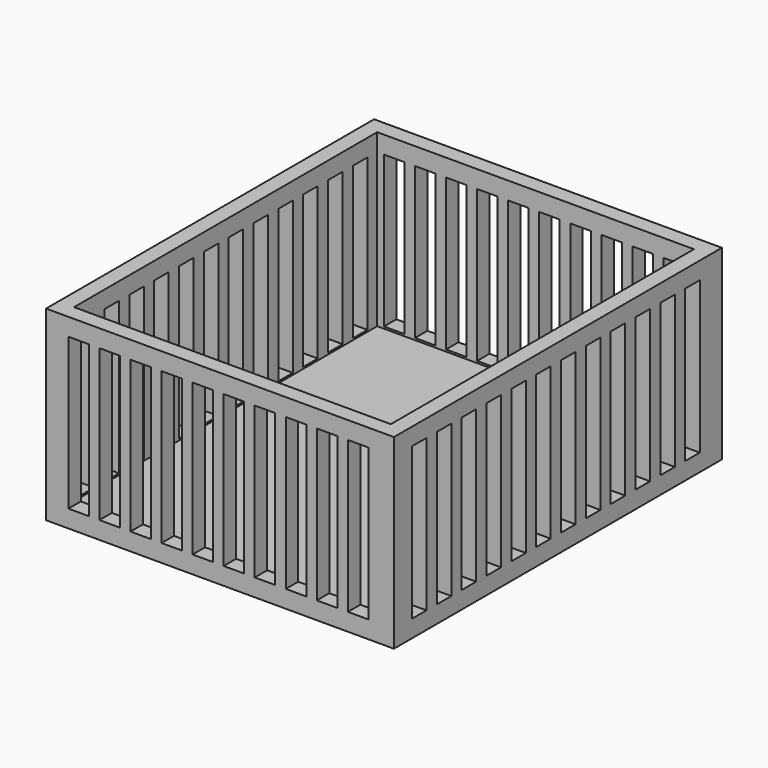
from build123d import *

# Parameters (mm, degrees)
F1_W     = 111.9999963282
F1_H     = 131.9999963282
F2_DEPTH = 5
F3_W     = 111.9999963282
F3_H     = 131.9999963282
F3_W_2   = 101.9999984144
F3_H_2   = 121.9999984144
F4_DEPTH = 55
F5_W     = 3.3013222273
F5_H     = 48.7285429239
F5_W_2   = 6.6026444547
F6_DEPTH = 200
F7_W     = 2.9244981706
F7_H     = 48.8800057769
F7_W_2   = 5.8489963412
F8_DEPTH = 200


with BuildPart() as f2:
    # F1 (on face) → F2 (new body)
    with BuildSketch(Plane.XY):
        with Locations((-4.4797024012, -0.5462057889)):
            Rectangle(F1_W, F1_H)
    extrude(amount=F2_DEPTH)

    # F3 (on face) → F4 (join)
    with BuildSketch(Plane.XY.offset(5)):
        with Locations((-4.4797024012, -0.5462057889)):
            Rectangle(F3_W, F3_H)
        with Locations((-4.4797024012, -0.5462057889)):
            Rectangle(F3_W_2, F3_H_2, mode=Mode.SUBTRACT)
    extrude(amount=F4_DEPTH)

    # F5 (on face) → F6 (cut)
    with BuildSketch(Plane.XZ.offset(66.546203953)):
        with Locations((-1.6506611137, 30)):
            Rectangle(F5_W, F5_H)
        with Locations((1.6506611137, 30)):
            Rectangle(F5_W, F5_H)
        with Locations((10, 30)):
            Rectangle(F5_W_2, F5_H)
        with Locations((20, 30)):
            Rectangle(F5_W_2, F5_H)
        with Locations((30, 30)):
            Rectangle(F5_W_2, F5_H)
        with Locations((40, 30)):
            Rectangle(F5_W_2, F5_H)
        with Locations((-10, 30)):
            Rectangle(F5_W_2, F5_H)
        with Locations((-20, 30)):
            Rectangle(F5_W_2, F5_H)
        with Locations((-30, 30)):
            Rectangle(F5_W_2, F5_H)
        with Locations((-40, 30)):
            Rectangle(F5_W_2, F5_H)
        with Locations((-50, 30)):
            Rectangle(F5_W_2, F5_H)
    extrude(amount=-F6_DEPTH, mode=Mode.SUBTRACT)

    # F7 (on face) → F8 (cut)
    with BuildSketch(Plane(origin=(-60.4797005653, 0, 0), x_dir=(0, -1, 0), z_dir=(-1, 0, 0))):
        with Locations((-55.0748649985, 30)):
            Rectangle(F7_W, F7_H)
        with Locations((-52.1503668278, 30)):
            Rectangle(F7_W, F7_H)
        with Locations((-43.6126159132, 30)):
            Rectangle(F7_W_2, F7_H)
        with Locations((-33.6126159132, 30)):
            Rectangle(F7_W_2, F7_H)
        with Locations((-23.6126159132, 30)):
            Rectangle(F7_W_2, F7_H)
        with Locations((-13.6126159132, 30)):
            Rectangle(F7_W_2, F7_H)
        with Locations((-3.6126159132, 30)):
            Rectangle(F7_W_2, F7_H)
        with Locations((6.3873840868, 30)):
            Rectangle(F7_W_2, F7_H)
        with Locations((16.3873840868, 30)):
            Rectangle(F7_W_2, F7_H)
        with Locations((26.3873840868, 30)):
            Rectangle(F7_W_2, F7_H)
        with Locations((36.3873840868, 30)):
            Rectangle(F7_W_2, F7_H)
        with Locations((46.3873840868, 30)):
            Rectangle(F7_W_2, F7_H)
        with Locations((56.3873840868, 30)):
            Rectangle(F7_W_2, F7_H)
    extrude(amount=-F8_DEPTH, mode=Mode.SUBTRACT)


solid = f2.part
